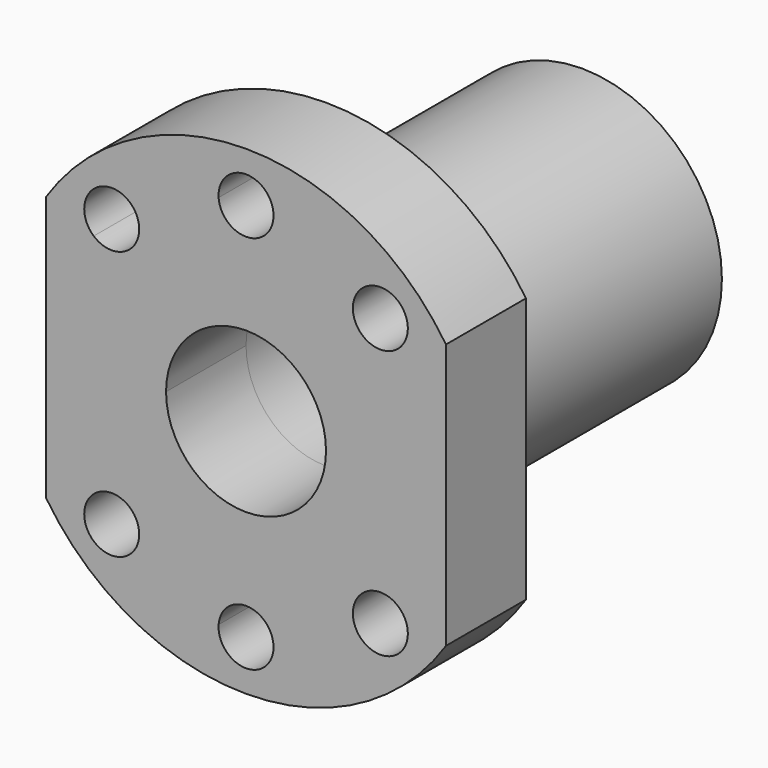
from build123d import *

# Parameters (mm, degrees)
F0_R     = 14
F1_DEPTH = 32
F2_DEPTH = 10
F3_D     = 16
F3_DEPTH = 50
F3_TIP   = 4.8068849522
F4_D     = 16
F4_DEPTH = 50
F4_TIP   = 4.8068849522


with BuildPart() as f1:
    # F0 (on Front) → F1 (new body)
    with BuildSketch(Plane.XZ):
        Circle(F0_R)
    extrude(amount=-F1_DEPTH)

    # F0 (on Front) → F2 (join)
    with BuildSketch(Plane.XZ):
        with BuildLine():
            Line((20, -13.2664991614), (20, 13.2664991614))
            ThreePointArc((20, 13.2664991614), (0, 24), (-20, 13.2664991614))
            Line((-20, 13.2664991614), (-20, -13.2664991614))
            ThreePointArc((-20, -13.2664991614), (0, -24), (20, -13.2664991614))
        make_face()
        with BuildLine():
            ThreePointArc((15.2337502822, 11.3548602959), (18.0338744501, 5.981586104), (19, 0))
            ThreePointArc((19, 0), (18.0338744501, -5.981586104), (15.2337502822, -11.3548602959))
            ThreePointArc((15.2337502822, -11.3548602959), (15.9359270771, -12.2913470597), (16.1850288425, -13.4350288425))
            ThreePointArc((16.1850288425, -13.4350288425), (14.3947257991, -16.0121360874), (11.3548602959, -15.2337502822))
            ThreePointArc((11.3548602959, -15.2337502822), (7.2709852149, -17.5537111177), (2.7427894128, -18.8009868421))
            ThreePointArc((2.7427894128, -18.8009868421), (2.748196762, -18.9004281295), (2.75, -19))
            ThreePointArc((2.75, -19), (-0.0995718705, -21.748196762), (-2.7427894128, -18.8009868421))
            ThreePointArc((-2.7427894128, -18.8009868421), (-7.2709852149, -17.5537111177), (-11.3548602959, -15.2337502822))
            ThreePointArc((-11.3548602959, -15.2337502822), (-15.3795724908, -15.3795724908), (-15.2337502822, -11.3548602959))
            ThreePointArc((-15.2337502822, -11.3548602959), (-19, 0), (-15.2337502822, 11.3548602959))
            ThreePointArc((-15.2337502822, 11.3548602959), (-15.3795724908, 15.3795724908), (-11.3548602959, 15.2337502822))
            ThreePointArc((-11.3548602959, 15.2337502822), (-7.2709852149, 17.5537111177), (-2.7427894128, 18.8009868421))
            ThreePointArc((-2.7427894128, 18.8009868421), (-0.0995718705, 21.748196762), (2.75, 19))
            ThreePointArc((2.75, 19), (2.748196762, 18.9004281295), (2.7427894128, 18.8009868421))
            ThreePointArc((2.7427894128, 18.8009868421), (7.2709852149, 17.5537111177), (11.3548602959, 15.2337502822))
            ThreePointArc((11.3548602959, 15.2337502822), (14.3947257991, 16.0121360874), (16.1850288425, 13.4350288425))
            ThreePointArc((16.1850288425, 13.4350288425), (15.9359270771, 12.2913470597), (15.2337502822, 11.3548602959))
        make_face(mode=Mode.SUBTRACT)
        with BuildLine():
            ThreePointArc((15.2337502822, -11.3548602959), (18.0338744501, -5.981586104), (19, 0))
            ThreePointArc((19, 0), (18.0338744501, 5.981586104), (15.2337502822, 11.3548602959))
            ThreePointArc((15.2337502822, 11.3548602959), (11.4904851943, 11.4904851943), (11.3548602959, 15.2337502822))
            ThreePointArc((11.3548602959, 15.2337502822), (7.2709852149, 17.5537111177), (2.7427894128, 18.8009868421))
            ThreePointArc((2.7427894128, 18.8009868421), (0, 16.25), (-2.7427894128, 18.8009868421))
            ThreePointArc((-2.7427894128, 18.8009868421), (-7.2709852149, 17.5537111177), (-11.3548602959, 15.2337502822))
            ThreePointArc((-11.3548602959, 15.2337502822), (-10.8579215977, 14.3947257991), (-10.6850288425, 13.4350288425))
            ThreePointArc((-10.6850288425, 13.4350288425), (-12.2913470597, 10.934130608), (-15.2337502822, 11.3548602959))
            ThreePointArc((-15.2337502822, 11.3548602959), (-19, 0), (-15.2337502822, -11.3548602959))
            ThreePointArc((-15.2337502822, -11.3548602959), (-12.2913470597, -10.934130608), (-10.6850288425, -13.4350288425))
            ThreePointArc((-10.6850288425, -13.4350288425), (-10.8579215977, -14.3947257991), (-11.3548602959, -15.2337502822))
            ThreePointArc((-11.3548602959, -15.2337502822), (-7.2709852149, -17.5537111177), (-2.7427894128, -18.8009868421))
            ThreePointArc((-2.7427894128, -18.8009868421), (0, -16.25), (2.7427894128, -18.8009868421))
            ThreePointArc((2.7427894128, -18.8009868421), (7.2709852149, -17.5537111177), (11.3548602959, -15.2337502822))
            ThreePointArc((11.3548602959, -15.2337502822), (11.4904851943, -11.4904851943), (15.2337502822, -11.3548602959))
        make_face()
        Circle(F0_R, mode=Mode.SUBTRACT)
        Circle(F0_R)
    extrude(amount=F2_DEPTH)

    # F3 (one way)
    with BuildSketch(Plane(origin=(0, 0, 0), x_dir=(1, 0, 0), z_dir=(0, 1, 0))):
        with Locations((0, 0)):
            Circle(F3_D / 2)
    extrude(amount=-F3_DEPTH, mode=Mode.SUBTRACT)
    with Locations(Plane(origin=(0, 0, 0), x_dir=(1, 0, 0), z_dir=(0, 1, 0))):
        with Locations((0, 0)):
            with Locations((0, 0, -(F3_DEPTH + F3_TIP / 2))):  # 118° drill point
                Cone(0, F3_D / 2, F3_TIP, mode=Mode.SUBTRACT)

    # F4
    with Locations(Plane.XZ):
        with Locations((0, 0)):
            Hole(F4_D / 2, depth=F4_DEPTH)
            with Locations((0, 0, -(F4_DEPTH + F4_TIP / 2))):  # 118° drill point
                Cone(0, F4_D / 2, F4_TIP, mode=Mode.SUBTRACT)


solid = f1.part
